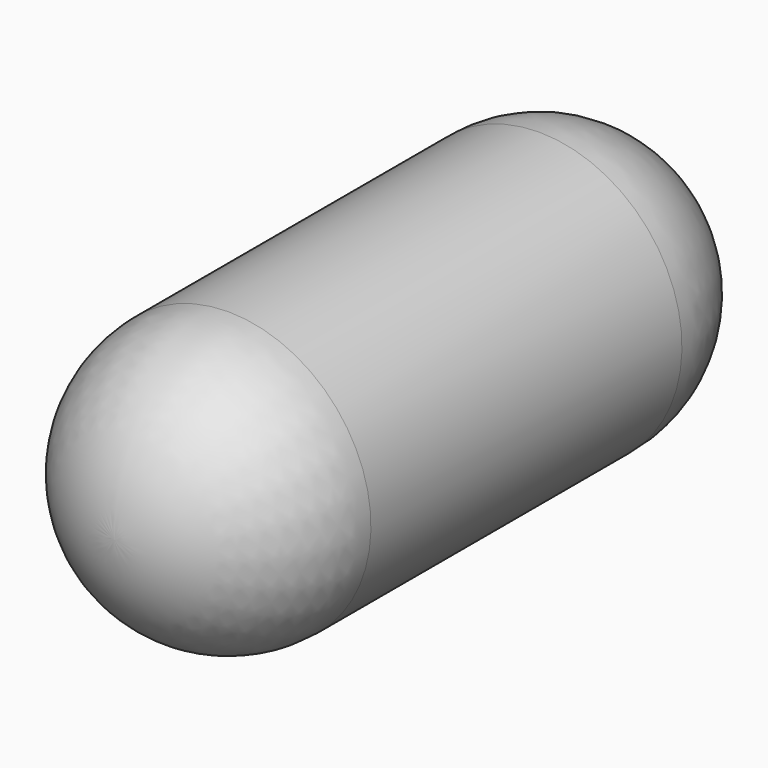
from build123d import *


with BuildPart() as f1:
    # F0 (on Right) → F1 (revolve)
    with BuildSketch(Plane.YZ):
        with BuildLine():
            Line((0, 5.5), (0, 0))
            Line((0, 0), (13, 0))
            ThreePointArc((13, 0), (11.389087, 3.889087), (7.5, 5.5))
            Line((7.5, 5.5), (0, 5.5))
        make_face()
    revolve(axis=Axis((0, 6.5, 0), (0, 1, 0)))

    # F2: F1 across plane


with BuildPart() as f1_1:
    add(f1.part)
    add(f1.part.mirror(Plane.XZ))


solid = f1_1.part
